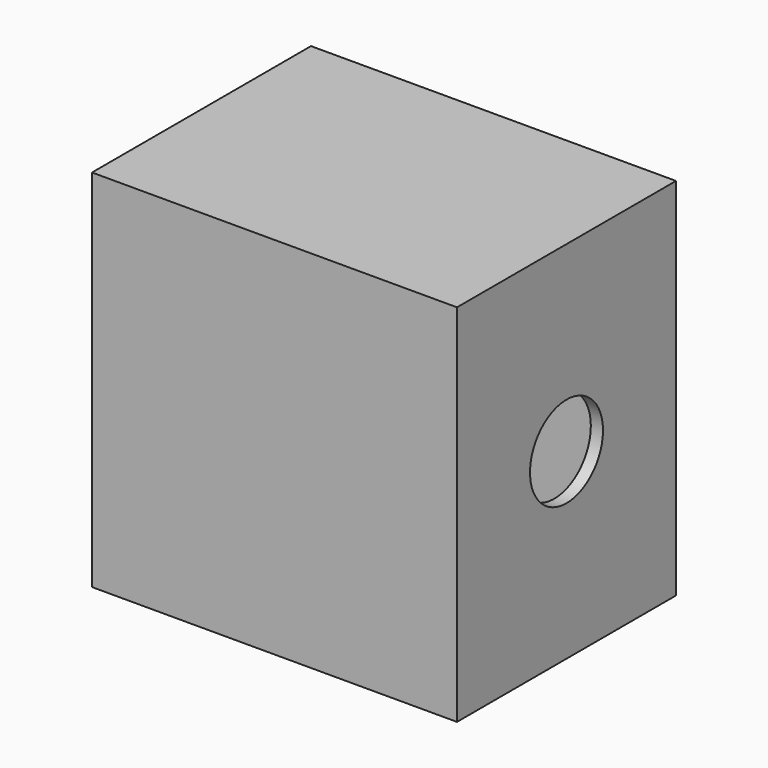
from build123d import *

# Parameters (mm, degrees)
F0_W     = 304.8
F0_H     = 228.6
F1_DEPTH = 304.8
F2_W     = 208.28
F2_H     = 284.48
F3_DEPTH = 294.64
F4_R     = 38.1
F5_DEPTH = 25.4


with BuildPart() as f1:
    # F0 (on Top) → F1 (new body)
    with BuildSketch(Plane.XY):
        Rectangle(F0_W, F0_H)
    extrude(amount=F1_DEPTH)

    # F2 (on face) → F3 (cut)
    with BuildSketch(Plane(origin=(-152.4, 0, 0), x_dir=(0, -1, 0), z_dir=(-1, 0, 0))):
        with Locations((0, 152.4)):
            Rectangle(F2_W, F2_H)
    extrude(amount=-F3_DEPTH, mode=Mode.SUBTRACT)

    # F4 (on face) → F5 (cut)
    with BuildSketch(Plane.YZ.offset(152.4)):
        with Locations((0, 152.4)):
            Circle(F4_R)
    extrude(amount=-F5_DEPTH, mode=Mode.SUBTRACT)


solid = f1.part
